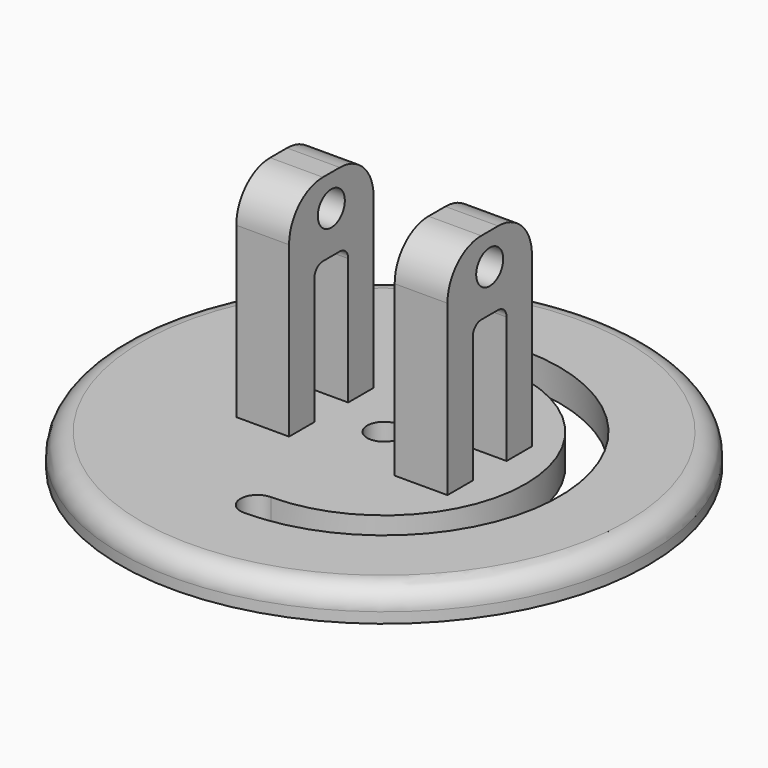
from build123d import *

# Parameters (mm, degrees)
SKETCH_R        = 25
PAD_DEPTH       = 3
SKETCH001_W     = 5
SKETCH001_H     = 10
PAD001_DEPTH    = 20
SKETCH002_R     = 1.6
POCKET_DEPTH    = 5
SKETCH003_R     = 1.6
SKETCH003_W     = 4
SKETCH003_H     = 13
POCKET001_DEPTH = 35.001
FILLET_R        = 4
FILLET001_R     = 1
FILLET002_R     = 2
POCKET002_DEPTH = 5
POCKET003_DEPTH = 5


with BuildPart() as part:
    # Sketch → Pad (new body)
    with BuildSketch(Plane.XY):
        Circle(SKETCH_R)
    extrude(amount=PAD_DEPTH)

    # Sketch001 (on Face3 of Pad) → Pad001 (join)
    with BuildSketch(Plane.XY.offset(3)):
        with Locations((-7.5, 0)):
            Rectangle(SKETCH001_W, SKETCH001_H)
        with Locations((7.5, 0)):
            Rectangle(SKETCH001_W, SKETCH001_H)
    extrude(amount=PAD001_DEPTH)

    # Sketch002 (on Face3 of Pad001) → Pocket (cut)
    with BuildSketch(Plane.XY.offset(3)):
        Circle(SKETCH002_R)
        with Locations((0, 15)):
            Circle(SKETCH002_R)
    extrude(amount=-POCKET_DEPTH, mode=Mode.SUBTRACT)

    # Sketch003 (on Face8 of Pocket) → Pocket001 (cut, through all)
    with BuildSketch(Plane(origin=(-10, 0, 0), x_dir=(0, -1, 0), z_dir=(-1, 0, 0))):
        with Locations((0, 20)):
            Circle(SKETCH003_R)
        with Locations((0, 9.5)):
            Rectangle(SKETCH003_W, SKETCH003_H)
    extrude(amount=-POCKET001_DEPTH, mode=Mode.SUBTRACT)

    # Fillet
    fillet_edges = [part.edges().sort_by_distance(p)[0] for p in [
        (-7.5, 5, 23),
        (-7.5, -5, 23),
        (7.5, -5, 23),
        (7.5, 5, 23),
    ]]
    fillet(fillet_edges, radius=FILLET_R)

    # Fillet001
    fillet001_edges = [part.edges().sort_by_distance(p)[0] for p in [
        (7.5, -2, 16),
        (-7.5, -2, 16),
        (-7.5, 2, 16),
        (7.5, 2, 16),
    ]]
    fillet(fillet001_edges, radius=FILLET001_R)

    # Fillet002
    fillet002_edges = [part.edges().sort_by_distance(p)[0] for p in [
        (-25, 0, 3),
    ]]
    fillet(fillet002_edges, radius=FILLET002_R)

    # Sketch004 (on Face1 of Fillet002) → Pocket002 (cut)
    with BuildSketch(Plane.XY.offset(3)):
        with BuildLine():
            ThreePointArc((0, -16.6), (16.6, 0), (0, 16.6))
            Line((0, 16.6), (0, 13.4))
            ThreePointArc((0, -13.4), (13.4, 0), (0, 13.4))
            Line((0, -13.4), (0, -16.6))
        make_face()
    extrude(amount=-POCKET002_DEPTH, mode=Mode.SUBTRACT)

    # Sketch005 (on Face1 of Pocket002) → Pocket003 (cut)
    with BuildSketch(Plane.XY.offset(3)):
        with BuildLine():
            ThreePointArc((0, -13.4), (-1.6, -15), (0, -16.6))
            Line((0, -13.4), (0, -16.6))
        make_face()
    extrude(amount=-POCKET003_DEPTH, mode=Mode.SUBTRACT)


solid = part.part
